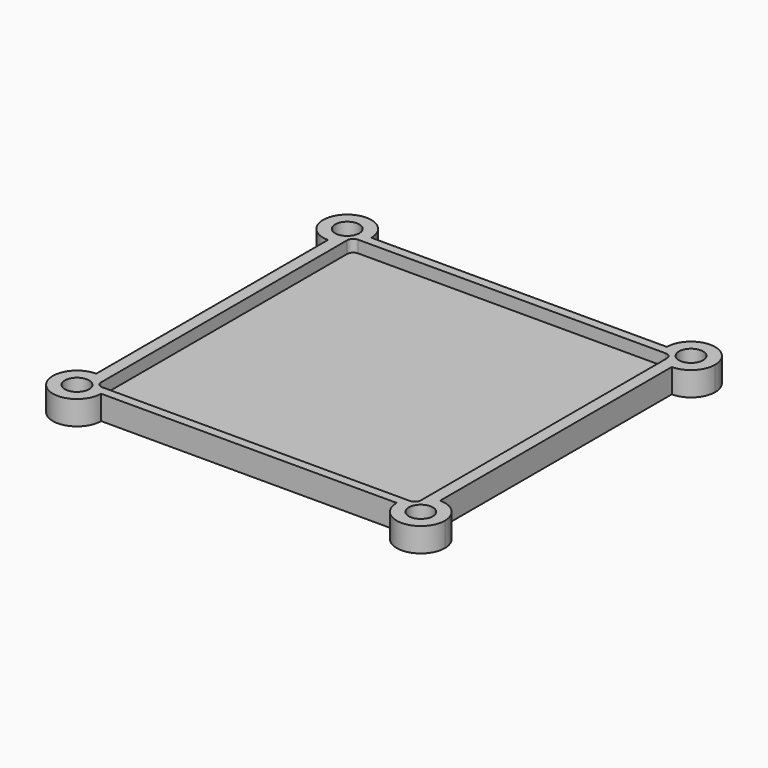
from build123d import *

# Parameters (mm, degrees)
F1_DEPTH = 4
F2_R     = 2
F3_DEPTH = 4
F4_W     = 53
F4_H     = 53
F5_DEPTH = 2
F6_R     = 1


with BuildPart() as f1:
    # F0 (on Top) → F1 (new body)
    with BuildSketch(Plane.XY):
        with BuildLine():
            ThreePointArc((-28.5, 24), (-25.6715728753, 25.1715728753), (-24.5, 28))
            Line((-24.5, 28), (-28.5, 28))
            Line((-28.5, 28), (-28.5, 24))
        make_face()
        with BuildLine():
            Line((-28.5, 28), (-24.5, 28))
            ThreePointArc((-24.5, 28), (-31.3284271247, 30.8284271247), (-28.5, 24))
            Line((-28.5, 24), (-28.5, 28))
        make_face()
        with BuildLine():
            Line((24.5, 28), (-24.5, 28))
            ThreePointArc((-24.5, 28), (-25.6715728753, 25.1715728753), (-28.5, 24))
            Line((-28.5, 24), (-28.5, -24))
            ThreePointArc((-28.5, -24), (-25.6715728753, -25.1715728753), (-24.5, -28))
            Line((-24.5, -28), (24.5, -28))
            ThreePointArc((24.5, -28), (25.6715728753, -25.1715728753), (28.5, -24))
            Line((28.5, -24), (28.5, 24))
            ThreePointArc((28.5, 24), (25.6715728753, 25.1715728753), (24.5, 28))
        make_face()
        with BuildLine():
            ThreePointArc((32.5, 28), (28.5, 32), (24.5, 28))
            Line((24.5, 28), (28.5, 28))
            Line((28.5, 28), (28.5, 24))
            ThreePointArc((28.5, 24), (31.3284271247, 25.1715728753), (32.5, 28))
        make_face()
        with BuildLine():
            Line((28.5, 28), (24.5, 28))
            ThreePointArc((24.5, 28), (25.6715728753, 25.1715728753), (28.5, 24))
            Line((28.5, 24), (28.5, 28))
        make_face()
        with BuildLine():
            ThreePointArc((-24.5, -28), (-25.6715728753, -25.1715728753), (-28.5, -24))
            Line((-28.5, -24), (-28.5, -28))
            Line((-28.5, -28), (-24.5, -28))
        make_face()
        with BuildLine():
            Line((-28.5, -28), (-28.5, -24))
            ThreePointArc((-28.5, -24), (-31.3284271247, -30.8284271247), (-24.5, -28))
            Line((-24.5, -28), (-28.5, -28))
        make_face()
        with BuildLine():
            ThreePointArc((32.5, -28), (31.3284271247, -25.1715728753), (28.5, -24))
            Line((28.5, -24), (28.5, -28))
            Line((28.5, -28), (24.5, -28))
            ThreePointArc((24.5, -28), (28.5, -32), (32.5, -28))
        make_face()
        with BuildLine():
            Line((28.5, -28), (28.5, -24))
            ThreePointArc((28.5, -24), (25.6715728753, -25.1715728753), (24.5, -28))
            Line((24.5, -28), (28.5, -28))
        make_face()
    extrude(amount=F1_DEPTH)

    # F2 (on face) → F3 (cut, through all)
    with BuildSketch(Plane.XY.offset(4)):
        with Locations((-28.5, 28)):
            Circle(F2_R)
        with Locations((28.5, 28)):
            Circle(F2_R)
        with Locations((28.5, -28)):
            Circle(F2_R)
        with Locations((-28.5, -28)):
            Circle(F2_R)
    extrude(amount=-F3_DEPTH, mode=Mode.SUBTRACT)

    # F4 (on face) → F5 (cut)
    with BuildSketch(Plane.XY.offset(4)):
        Rectangle(F4_W, F4_H)
    extrude(amount=-F5_DEPTH, mode=Mode.SUBTRACT)

    # F6
    f6_edges = [f1.edges().sort_by_distance(p)[0] for p in [
        (-26.5, 26.5, 3),
        (26.5, 26.5, 3),
        (26.5, -26.5, 3),
        (-26.5, -26.5, 3),
    ]]
    fillet(f6_edges, radius=F6_R)


solid = f1.part
